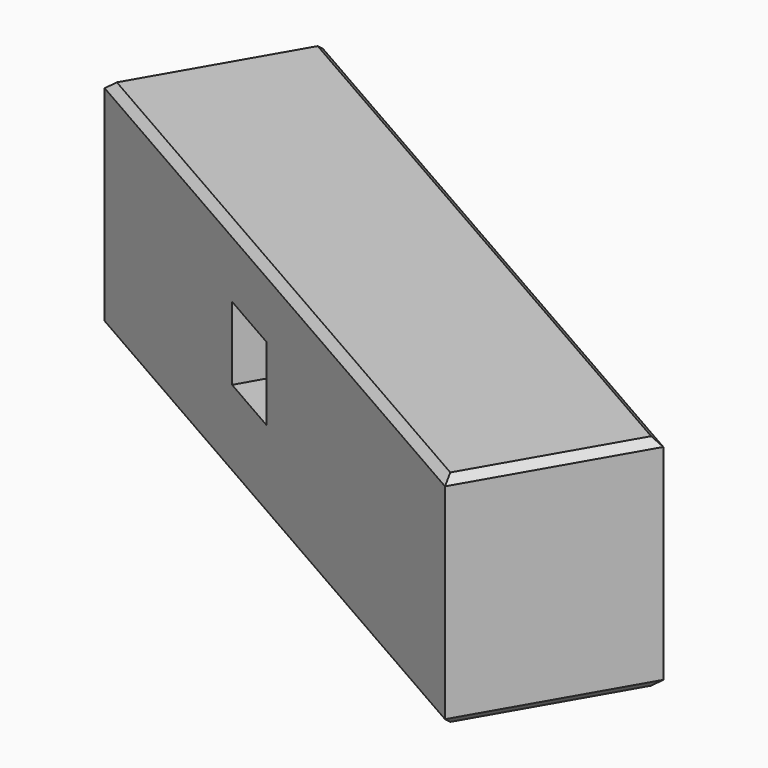
from build123d import *

# Parameters (mm, degrees)
PAD004_DEPTH    = 12
CHAMFER004_SIZE = 0.4
SKETCH014_W     = 4
SKETCH014_H     = 3
POCKET005_DEPTH = 27.0586020258
CHAMFER008_SIZE = 1


with BuildPart() as part:
    # Sketch008 → Pad004 (new body)
    with BuildSketch(Plane.XY):
        Polygon((-40.830441, 36.9006350378), (-45.830441, 28.240381), (-11.510031, 8.58289), (-6.510031, 17.2431440378), align=None)
    extrude(amount=PAD004_DEPTH)

    # Chamfer004
    chamfer004_edges = [part.edges().sort_by_distance(p)[0] for p in [
        (-43.330441, 32.570508, 12),
        (-28.670236, 18.411635, 12),
        (-9.010031, 12.913017, 12),
        (-23.670236, 27.07189, 12),
        (-43.330441, 32.570508, 0),
        (-28.670236, 18.411635, 0),
        (-9.010031, 12.913017, 0),
        (-23.670236, 27.07189, 0),
    ]]
    chamfer(chamfer004_edges, length=CHAMFER004_SIZE)

    # Sketch014 (on Face5 of Chamfer004) → Pocket005 (cut, through all)
    with BuildSketch(Plane(origin=(0.8584007196, 1.498699129, 0), x_dir=(0.8677435702, -0.4970121692, 0), z_dir=(-0.4970121692, -0.8677435702, 0))):
        with Locations((-37, 6)):
            Rectangle(SKETCH014_W, SKETCH014_H)
    extrude(amount=-POCKET005_DEPTH, mode=Mode.SUBTRACT)

    # Chamfer008
    chamfer008_edges = [part.edges().sort_by_distance(p)[0] for p in [
        (-31.248111, 19.888149, 7.5),
        (-26.278019, 28.565534, 7.5),
    ]]
    chamfer(chamfer008_edges, length=CHAMFER008_SIZE)


solid = part.part
